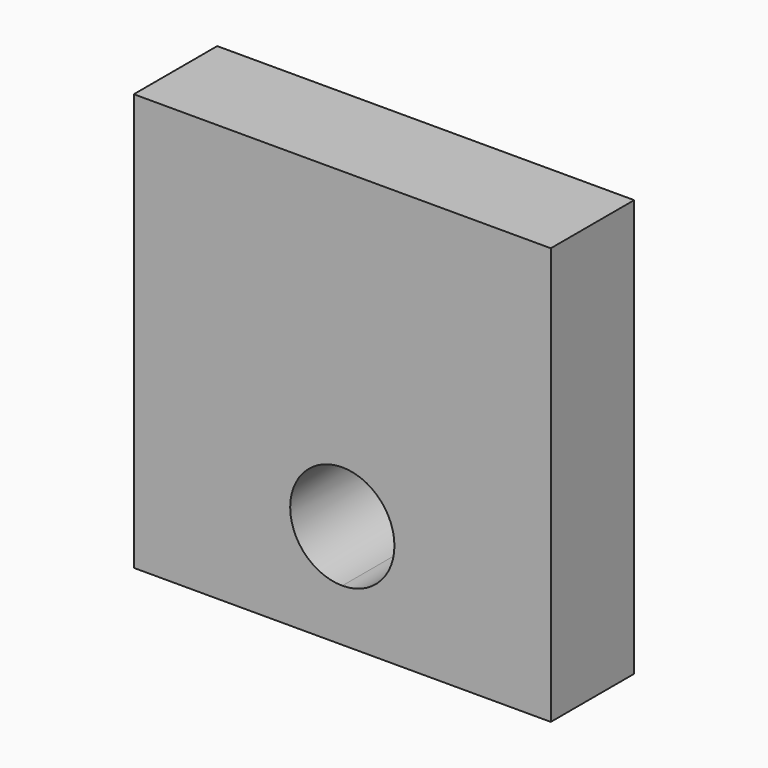
from build123d import *

# Parameters (mm, degrees)
F0_W     = 101.6
F0_H     = 101.6
F1_DEPTH = 25.4
F3_DEPTH = 25.401


with BuildPart() as f1:
    # F0 (on Front) → F1 (new body)
    with BuildSketch(Plane.XZ):
        with Locations((50.8, 50.8)):
            Rectangle(F0_W, F0_H)
    extrude(amount=F1_DEPTH)

    # F2 (on face) → F3 (cut, through all)
    with BuildSketch(Plane.XZ.offset(25.4)):
        with BuildLine():
            ThreePointArc((63.5, 25.4), (59.780256, 34.380256), (50.8, 38.1))
            Line((50.8, 38.1), (50.8, 12.7))
            ThreePointArc((50.8, 12.7), (59.780256, 16.419744), (63.5, 25.4))
        make_face()
        with BuildLine():
            Line((50.8, 12.7), (50.8, 38.1))
            ThreePointArc((50.8, 38.1), (38.1, 25.4), (50.8, 12.7))
        make_face()
    extrude(amount=-F3_DEPTH, mode=Mode.SUBTRACT)


solid = f1.part
